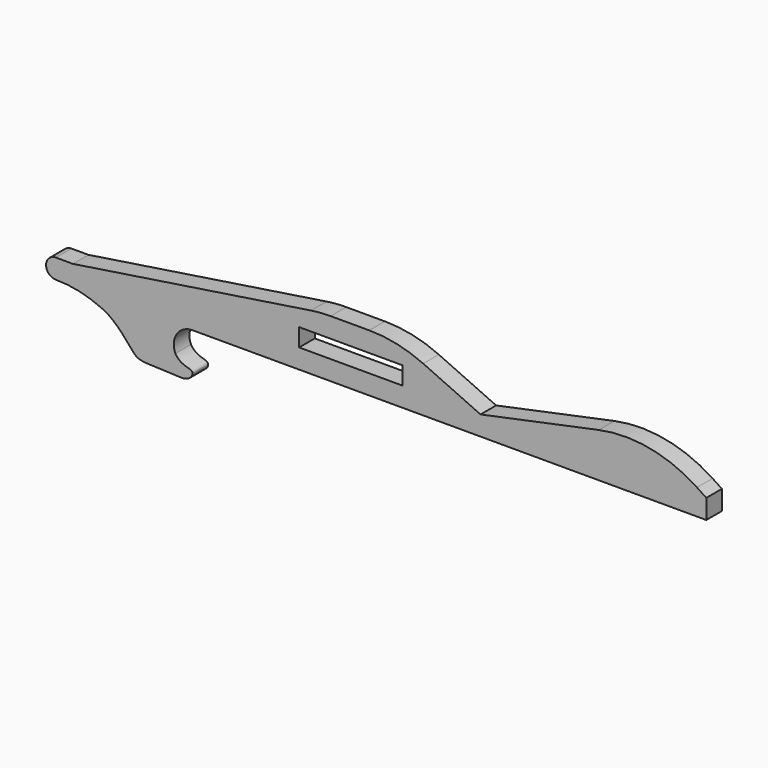
from build123d import *

# Parameters (mm, degrees)
F1_DEPTH = 3


with BuildPart() as f1:
    # F0 (on Front) → F1 (new body)
    with BuildSketch(Plane.XZ):
        with BuildLine():
            Line((-62.2174302257, 34.0792866244), (-62.2174302257, 37.0792866244))
            ThreePointArc((-62.2174302257, 37.0792866244), (-63.7174302257, 35.5792866244), (-62.2174302257, 34.0792866244))
        make_face()
        with BuildLine():
            ThreePointArc((-43.8397750258, 30.0628747791), (-43.6141613241, 32.781176986), (-41.2152074277, 34.0792866244))
            Line((-41.2152074277, 34.0792866244), (-41.2691645324, 34.0792866244))
            Line((-41.2691645324, 34.0792866244), (-54.0572144091, 34.0792866244))
            Line((-54.0572144091, 34.0792866244), (-62.2174302257, 34.0792866244))
            ThreePointArc((-62.2174302257, 34.0792866244), (-58.6487465395, 33.6917698382), (-55.2464202046, 32.5472839177))
            add(Edge.make_bspline(
                [(-42.7791178226, 27.0931944251), (-49.7212063405, 27.3062232623), (-49.3171741888, 27.0847515739), (-53.5192862103, 31.93581339), (-55.2464202046, 32.5472839177)],
                knots=[0, 0, 0, 0, 0.5316142491, 1, 1, 1, 1], degree=3))
            add(Edge.make_bspline(
                [(-43.8397750258, 30.0628747791), (-42.9603002793, 28.648200624), (-40.4412665904, 29.1570281848), (-41.5067049695, 27.1511407727), (-42.7791178226, 27.0931944251)],
                knots=[0, 0, 0, 0, 0.5503485868, 1, 1, 1, 1], degree=3))
        make_face()
        with BuildLine():
            Line((-8.9188218117, 37.0792866244), (3.0751132872, 37.0792866244))
            Line((3.0751132872, 37.0792866244), (-5.7411652831, 41.0951580407))
            ThreePointArc((-5.7411652831, 41.0951580407), (-9.7899424344, 42.4394313305), (-14.0317167887, 42.894423008))
            Line((-14.0317167887, 42.894423008), (-19.9778148896, 42.894423008))
            ThreePointArc((-19.9778148896, 42.894423008), (-21.4905036729, 42.837135277), (-22.9945266053, 42.6656002725))
            Line((-22.9945266053, 42.6656002725), (-59.6065756835, 37.0792866244))
            Line((-59.6065756835, 37.0792866244), (-24.8117092997, 37.0792866244))
            Line((-24.8117092997, 37.0792866244), (-24.8117092997, 39.829544723))
            Line((-24.8117092997, 39.829544723), (-8.9188218117, 39.829544723))
            Line((-8.9188218117, 39.829544723), (-8.9188218117, 37.0792866244))
        make_face()
        Polygon((37.7825697743, 34.0792866244), (37.7825697743, 37.0792866244), (3.0751132872, 37.0792866244), (-8.9188218117, 37.0792866244), (-24.8117092997, 37.0792866244), (-59.6065756835, 37.0792866244), (-62.2174302257, 37.0792866244), (-62.2174302257, 34.0792866244), (-54.0572144091, 34.0792866244), (-41.2691645324, 34.0792866244), (-41.2152074277, 34.0792866244), align=None)
        with BuildLine():
            Line((3.0751132872, 37.0792866244), (37.7825697743, 37.0792866244))
            Line((37.7825697743, 37.0792866244), (36.3480403802, 38.0231242511))
            ThreePointArc((36.3480403802, 38.0231242511), (29.0861642169, 40.964055469), (21.251728148, 40.889669157))
            Line((21.251728148, 40.889669157), (3.0751132872, 37.0792866244))
        make_face()
    extrude(amount=F1_DEPTH)


solid = f1.part
